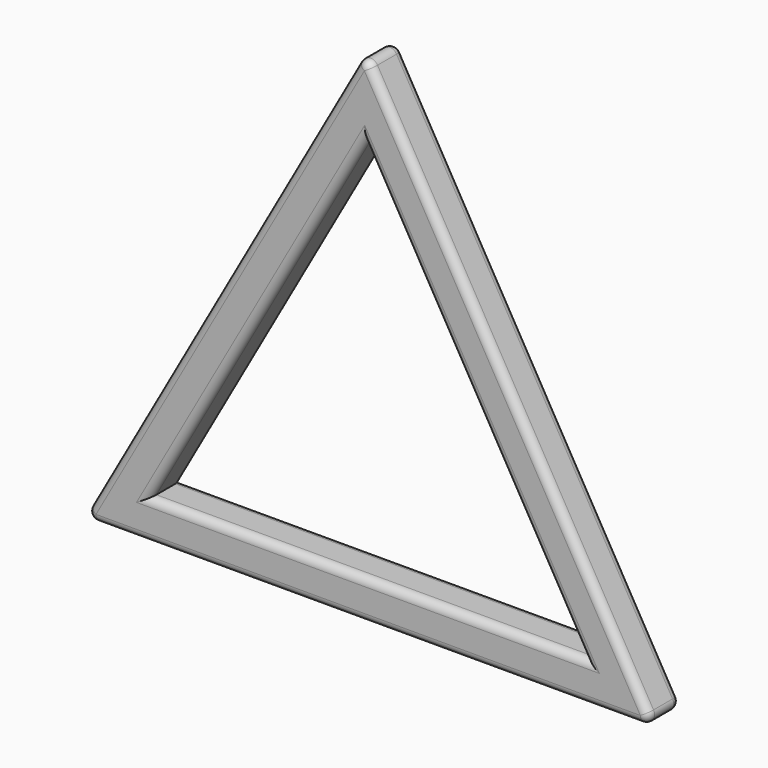
from build123d import *

# Parameters (mm, degrees)
F1_DEPTH = 25.4
F2_R     = 5.08


with BuildPart() as f1:
    # F0 (on Front) → F1 (new body)
    with BuildSketch(Plane.XZ):
        Polygon((0, 215.549931), (-181.149335, -106.942706), (186.312465, -106.942706), align=None)
        Polygon((-137.748873, -81.542706), (0.310105, 164.237958), (142.304048, -81.542706), align=None, mode=Mode.SUBTRACT)
    extrude(amount=F1_DEPTH)

    # F2
    f2_edges = [f1.edges().sort_by_distance(p)[0] for p in [
        (93.156233, 0, 54.303613),
        (-90.574667, 0, 54.303613),
        (2.581565, 0, -106.942706),
        (2.277588, 0, -81.542706),
        (71.307076, 0, 41.347626),
        (-68.719384, 0, 41.347626),
        (93.156233, -25.4, 54.303613),
        (2.581565, -25.4, -106.942706),
        (-90.574667, -25.4, 54.303613),
        (2.277588, -25.4, -81.542706),
        (71.307076, -25.4, 41.347626),
        (-68.719384, -25.4, 41.347626),
        (0, -12.7, 215.549931),
        (186.312465, -12.7, -106.942706),
        (-181.149335, -12.7, -106.942706),
    ]]
    fillet(f2_edges, radius=F2_R)


solid = f1.part
